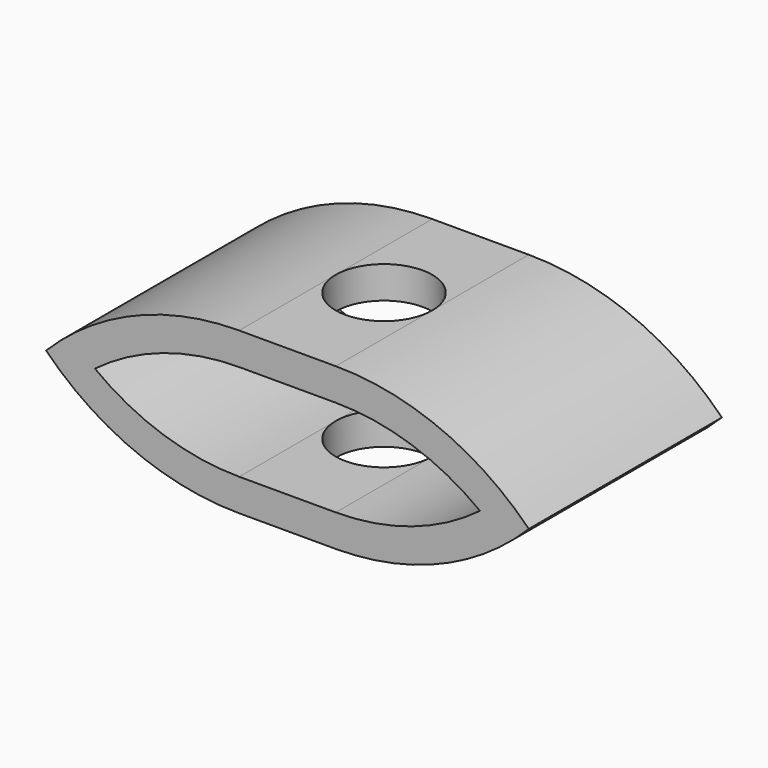
from build123d import *

# Parameters (mm, degrees)
F1_DEPTH = 7.5
F2_R     = 1.5
F3_DEPTH = 5.001


with BuildPart() as f1:
    # F0 (on Front) → F1 (new body)
    with BuildSketch(Plane.XZ):
        with BuildLine():
            ThreePointArc((7.5, 0), (4.75, 1.85), (1.5, 2.5))
            Line((1.5, 2.5), (-1.5, 2.5))
            ThreePointArc((-1.5, 2.5), (-4.75, 1.85), (-7.5, 0))
            ThreePointArc((-7.5, 0), (-4.75, -1.85), (-1.5, -2.5))
            Line((-1.5, -2.5), (1.5, -2.5))
            ThreePointArc((1.5, -2.5), (4.75, -1.85), (7.5, 0))
        make_face()
        with BuildLine():
            Line((-1.5, 1.5), (1.5, 1.5))
            ThreePointArc((1.5, 1.5), (3.863789, 1.115055), (5.983302, 0))
            ThreePointArc((5.983302, 0), (3.863789, -1.115055), (1.5, -1.5))
            Line((1.5, -1.5), (-1.5, -1.5))
            ThreePointArc((-1.5, -1.5), (-3.863789, -1.115055), (-5.983302, 0))
            ThreePointArc((-5.983302, 0), (-3.863789, 1.115055), (-1.5, 1.5))
        make_face(mode=Mode.SUBTRACT)
    extrude(amount=F1_DEPTH)

    # F2 (on face) → F3 (cut, through all)
    with BuildSketch(Plane.XY.offset(2.5)):
        with Locations((0, -3.75)):
            Circle(F2_R)
    extrude(amount=-F3_DEPTH, mode=Mode.SUBTRACT)


solid = f1.part
